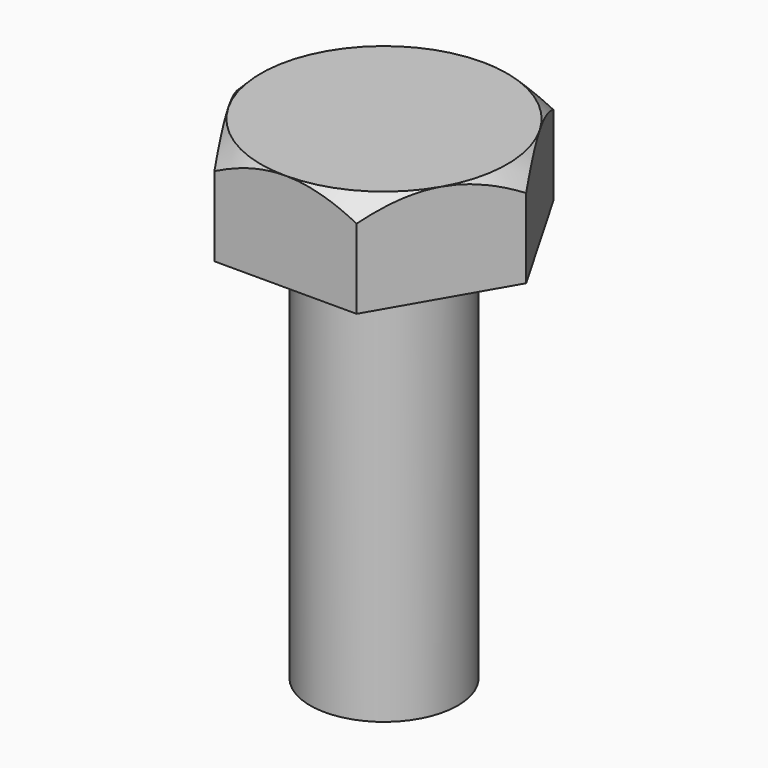
from build123d import *

# Parameters (mm, degrees)
F1_DEPTH = 4
F2_R     = 3
F3_DEPTH = 16


with BuildPart() as f1:
    # F0 (on Top) → F1 (new body)
    with BuildSketch(Plane.XY):
        Polygon((-2.886751, -5), (2.886751, -5), (5.773503, 0), (2.886751, 5), (-2.886751, 5), (-5.773503, 0), align=None)
    extrude(amount=F1_DEPTH)

    # F2 (on face) → F3 (join)
    with BuildSketch(Plane(origin=(0, 0, 0), x_dir=(1, 0, 0), z_dir=(0, 0, -1))):
        Circle(F2_R)
    extrude(amount=F3_DEPTH)

    # F4 (on Right) → F5 (revolve, cut)
    with BuildSketch(Plane.YZ):
        Polygon((9, 4), (5, 4), (9, 0), align=None)
    revolve(axis=Axis((0, 0, -1.209494), (0, 0, -1)), mode=Mode.SUBTRACT)


solid = f1.part
